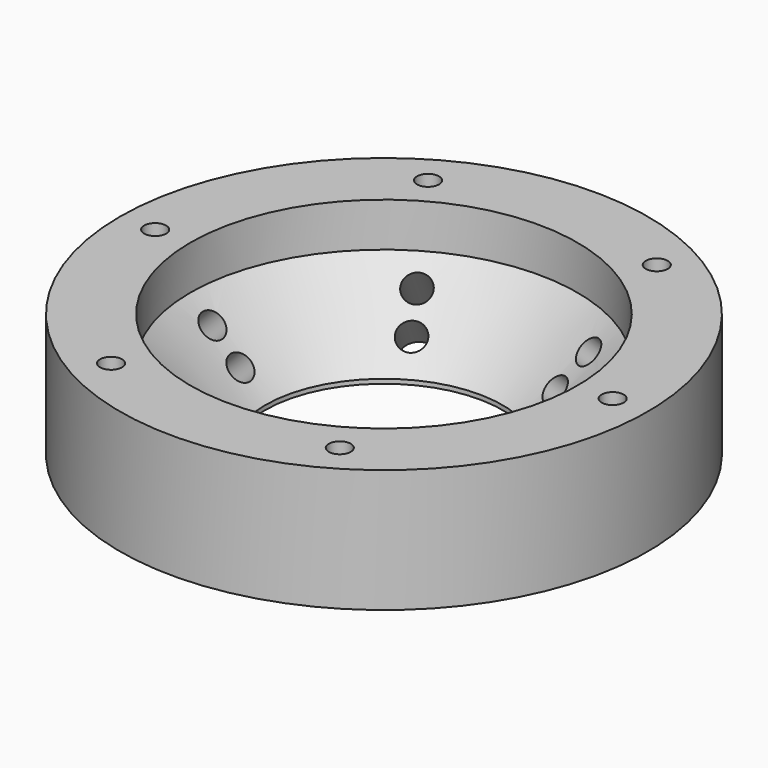
from build123d import *

# Parameters (mm, degrees)
F3_R          = 2.5
F4_DEPTH      = 15
F4_DEPTH_BACK = 20
F5_COUNT      = 6
F7_R          = 2.5
F8_DEPTH      = 15
F8_DEPTH_BACK = 20
F9_COUNT      = 6
F16_COUNT     = 6


with BuildPart() as f1:
    # F0 (on Front) → F1 (revolve)
    with BuildSketch(Plane.XZ):
        Polygon((-27, -3), (-27, -2), (-44, 15), (-44, 25), (-60, 25), (-60, -3), (-44, -3), (-41.1485657096, -3), align=None)
    revolve(axis=Axis((0, 0, 9), (0, 0, -1)))

    # F5: F4 ×6 about axis
    f5_axis = Axis((0, 0, 9), (0, 0, 1))


with BuildPart() as f4:
    # F3 (on offset) → F4 (new body, two sides)
    with BuildSketch(Plane(origin=(0, 0, -3), x_dir=(1, 0, 0), z_dir=(0, 0, -1))) as f4_sk:
        with Locations((0, -52)):
            Circle(F3_R)
    extrude(amount=-F4_DEPTH)
    extrude(f4_sk.sketch, amount=F4_DEPTH_BACK)


with BuildPart() as f1_1:
    add(f1.part)
    for i in range(1, F5_COUNT):
        add(f4.part.rotate(f5_axis, i * 360 / F5_COUNT), mode=Mode.SUBTRACT)

    # F5#seed: cut F4
    add(f4.part, mode=Mode.SUBTRACT)

    # F9: F8 ×6 about axis
    f9_axis = Axis((0, 0, 9.4880101401), (0, 0, -1))


with BuildPart() as f8:
    # F7 (on offset) → F8 (new body, two sides)
    with BuildSketch(Plane.XY.offset(25)) as f8_sk:
        with Locations((-26, 45.0333209968)):
            Circle(F7_R)
    extrude(amount=-F8_DEPTH)
    extrude(f8_sk.sketch, amount=F8_DEPTH_BACK)


with BuildPart() as f1_2:
    add(f1_1.part)
    for i in range(1, F9_COUNT):
        add(f8.part.rotate(f9_axis, i * 360 / F9_COUNT), mode=Mode.SUBTRACT)

    # F9#seed: cut F8
    add(f8.part, mode=Mode.SUBTRACT)

    # F16: F13, F15 ×6 about axis
    f16_axis = Axis((0, 0, 9.4880101401), (0, 0, -1))


with BuildPart() as f13:
    # F12 (on face) → F13 (revolve)
    with BuildSketch(Plane(origin=(0, 0, 0), x_dir=(-0.5, 0.8660254038, 0), z_dir=(0.8660254038, 0.5, 0))):
        Polygon((-67.4055094597, -18.3638788993), (-30.2569772349, 18.7846533255), (-32.3782975784, 20.905973669), (-69.5268298033, -16.2425585558), align=None)
    revolve(axis=Axis((24.4156216736, -42.2890972371, 0.2103872131), (0.3535533906, -0.6123724357, -0.7071067812)))


with BuildPart() as f15:
    # F14 (on face) → F15 (revolve)
    with BuildSketch(Plane(origin=(0, 0, 0), x_dir=(-0.5, 0.8660254038, 0), z_dir=(0.8660254038, 0.5, 0))):
        Polygon((-54.6252176165, -18.3115091175), (-17.7477093413, 18.5659991577), (-19.8690296849, 20.6873195012), (-56.7465379601, -16.190188774), align=None)
    revolve(axis=Axis((18.1085297494, -31.3648935764, 0.0966490001), (0.3535533906, -0.6123724357, -0.7071067812)))


with BuildPart() as f1_3:
    add(f1_2.part)
    for i in range(1, F16_COUNT):
        add(f13.part.rotate(f16_axis, i * 360 / F16_COUNT), mode=Mode.SUBTRACT)
        add(f15.part.rotate(f16_axis, i * 360 / F16_COUNT), mode=Mode.SUBTRACT)

    # F16#seed: cut F13, F15
    add(f13.part, mode=Mode.SUBTRACT)
    add(f15.part, mode=Mode.SUBTRACT)


solid = f1_3.part
